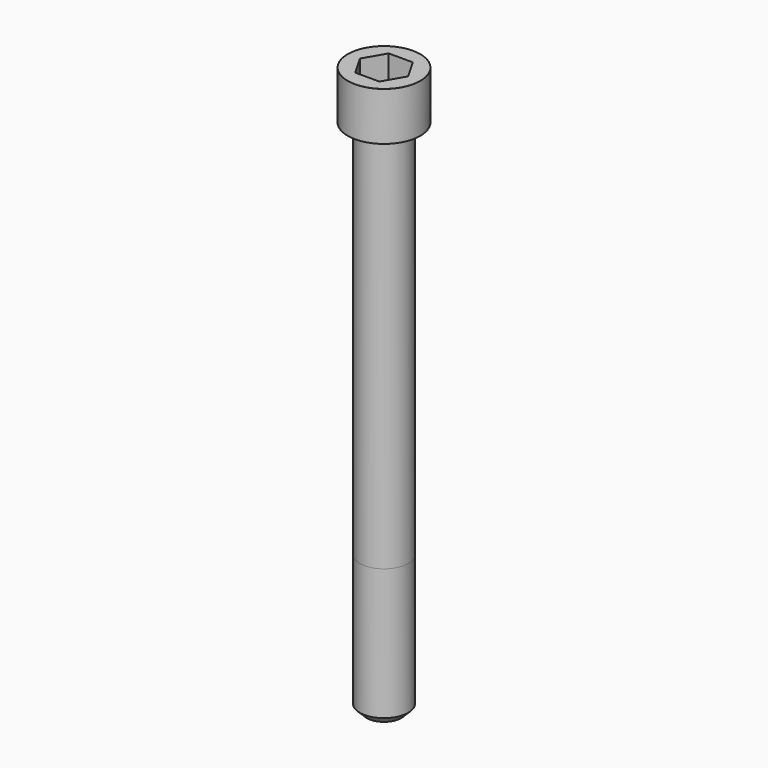
from build123d import *

# Parameters (mm, degrees)
POCKET_DEPTH = 12.07


with BuildPart() as part:
    # Sketch → Revolve (revolve)
    with BuildSketch(Plane.YZ):
        with BuildLine():
            Line((6.999, 0), (10.5, 0))
            Line((10.5, 0), (10.5, 13.97229))
            ThreePointArc((10.5, 13.97229), (10.491884, 13.991884), (10.47229, 14))
            Line((10.47229, 14), (0, 14))
            Line((0, -150), (0, 14))
            Line((5, -150), (0, -150))
            Line((7, -148), (5, -150))
            Line((7, -110), (7, -148))
            Line((6.999, 0), (7, -110))
        make_face()
    revolve(axis=Axis((0, 0, 0), (0, 0, 1)))

    # Sketch001 → Pocket (cut)
    with BuildSketch(Plane.XY.offset(14)):
        Polygon((6.968618, 0), (3.484309, 6.035), (-3.484309, 6.035), (-6.968618, 0), (-3.484309, -6.035), (3.484309, -6.035), align=None)
    extrude(amount=-POCKET_DEPTH, mode=Mode.SUBTRACT)


solid = part.part
